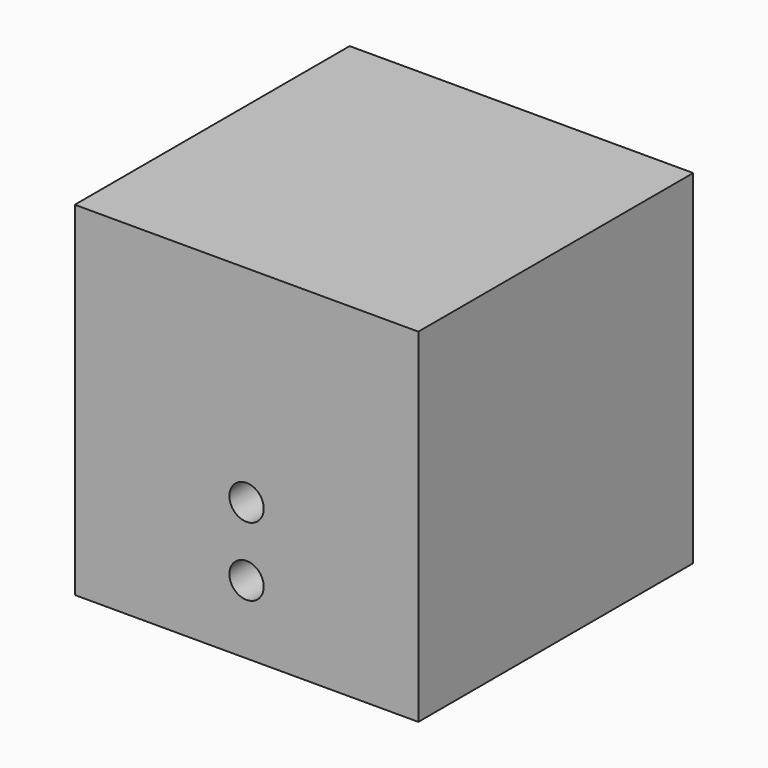
from build123d import *

# Parameters (mm, degrees)
F0_W     = 63.5
F0_H     = 63.5
F1_DEPTH = 63.5
F2_R     = 3.175
F3_DEPTH = 12.7
F4_DEPTH = 12.7
F5_R     = 3.175
F6_DEPTH = 12.7


with BuildPart() as f1:
    # F0 (on Top) → F1 (new body)
    with BuildSketch(Plane.XY):
        Rectangle(F0_W, F0_H)
    extrude(amount=F1_DEPTH)

    # F2 (on face) → F3 (join)
    with BuildSketch(Plane(origin=(0, 31.75, 0), x_dir=(-1, 0, 0), z_dir=(0, 1, 0))):
        with Locations((0, 31.75)):
            Circle(F2_R)
    extrude(amount=F3_DEPTH)

    # F2 (on face) → F4 (cut)
    with BuildSketch(Plane(origin=(0, 31.75, 0), x_dir=(-1, 0, 0), z_dir=(0, 1, 0))):
        with Locations((-12.7, 31.75)):
            Circle(F2_R)
        with Locations((12.7, 31.75)):
            Circle(F2_R)
    extrude(amount=-F4_DEPTH, mode=Mode.SUBTRACT)

    # F5 (on face) → F6 (cut)
    with BuildSketch(Plane.XZ.offset(31.75)):
        with Locations((0, 25.4)):
            Circle(F5_R)
        with Locations((0, 12.7)):
            Circle(F5_R)
    extrude(amount=-F6_DEPTH, mode=Mode.SUBTRACT)


solid = f1.part
